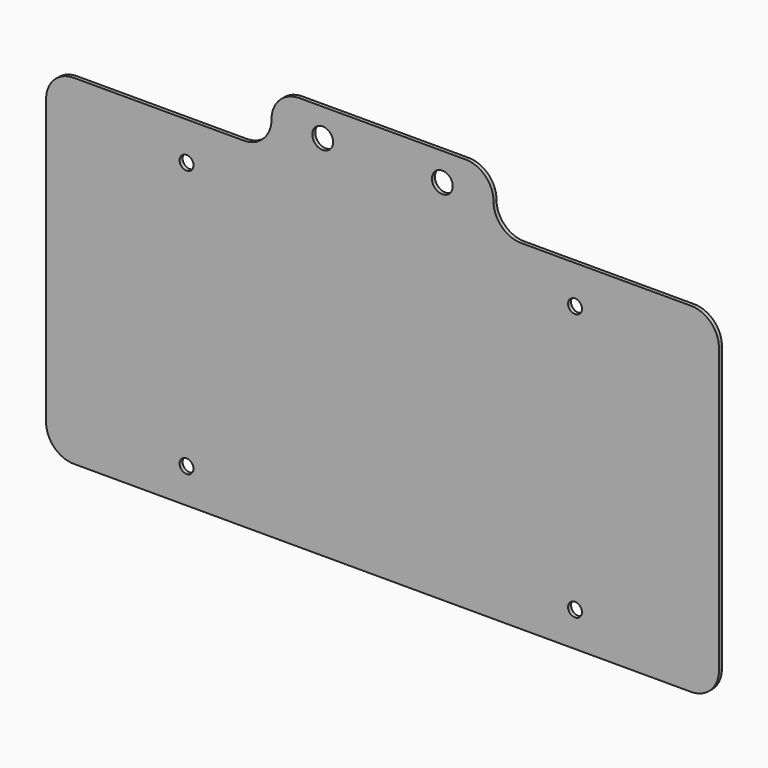
from build123d import *

# Parameters (mm, degrees)
F0_R     = 3.175
F0_R_2   = 4.7625
F1_DEPTH = 1.7145


with BuildPart() as f1:
    # F0 (on Front) → F1 (new body)
    with BuildSketch(Plane.XZ):
        with BuildLine():
            ThreePointArc((0, 12.7), (3.719744, 3.719744), (12.7, 0))
            Line((12.7, 0), (295.275, 0))
            ThreePointArc((295.275, 0), (304.255256, 3.719744), (307.975, 12.7))
            Line((307.975, 12.7), (307.975, 142.875))
            ThreePointArc((307.975, 142.875), (304.255256, 151.855256), (295.275, 155.575))
            Line((295.275, 155.575), (217.4875, 155.575))
            ThreePointArc((217.4875, 155.575), (208.507244, 159.294744), (204.7875, 168.275))
            ThreePointArc((204.7875, 168.275), (201.067756, 177.255256), (192.0875, 180.975))
            Line((192.0875, 180.975), (115.8875, 180.975))
            ThreePointArc((115.8875, 180.975), (106.907244, 177.255256), (103.1875, 168.275))
            ThreePointArc((103.1875, 168.275), (99.467756, 159.294744), (90.4875, 155.575))
            Line((90.4875, 155.575), (12.7, 155.575))
            ThreePointArc((12.7, 155.575), (3.719744, 151.855256), (0, 142.875))
            Line((0, 142.875), (0, 12.7))
        make_face()
        with Locations((64.29375, 15.875)):
            Circle(F0_R, mode=Mode.SUBTRACT)
        with Locations((242.09375, 15.875)):
            Circle(F0_R, mode=Mode.SUBTRACT)
        with Locations((64.29375, 138.1125)):
            Circle(F0_R, mode=Mode.SUBTRACT)
        with Locations((126.602998, 168.275)):
            Circle(F0_R_2, mode=Mode.SUBTRACT)
        with Locations((181.371748, 168.275)):
            Circle(F0_R_2, mode=Mode.SUBTRACT)
        with Locations((242.09375, 138.1125)):
            Circle(F0_R, mode=Mode.SUBTRACT)
    extrude(amount=F1_DEPTH)


solid = f1.part
